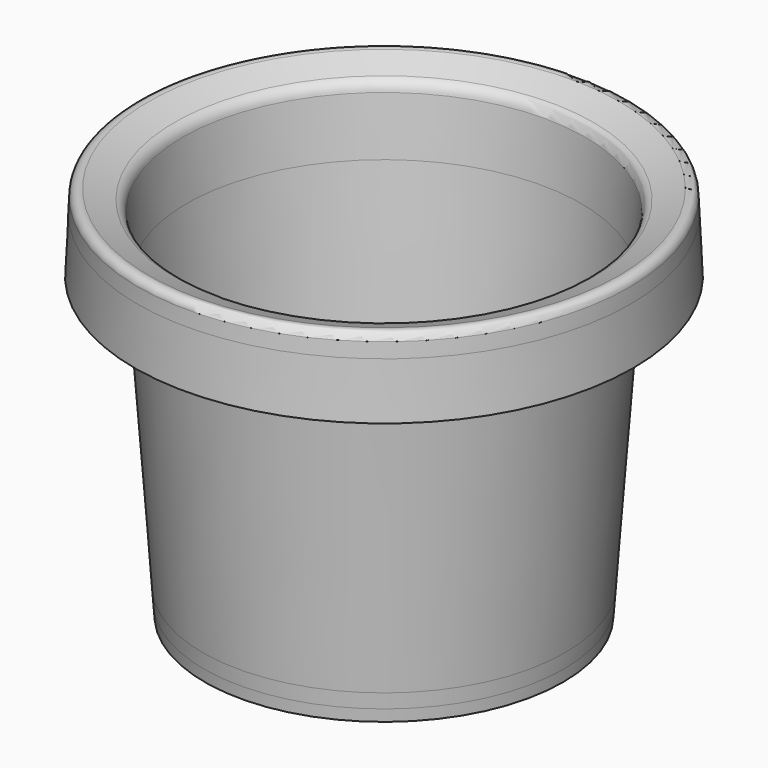
from build123d import *


with BuildPart() as f1:
    # F0 (on Front) → F1 (revolve)
    with BuildSketch(Plane.XZ):
        with BuildLine():
            Line((19.304, -3.81), (20.574, -3.81))
            Line((20.574, -3.81), (20.828, 0))
            Line((20.828, 0), (60.236531, 0))
            Line((60.236531, 0), (75.928032, 0))
            ThreePointArc((75.928032, 0), (79.802945, 0.796808), (83.004816, 3.120141))
            Line((83.004816, 3.120141), (83.039712, 1.778))
            Line((83.039712, 1.778), (83.185, -3.81))
            Line((83.185, -3.81), (84.455, -3.81))
            Line((84.455, -3.81), (84.865725, 1.778))
            Line((84.865725, 1.778), (85.373955, 8.692586))
            Line((85.373955, 8.692586), (96.777553, 163.841086))
            ThreePointArc((96.777553, 163.841086), (97.545706, 165.928684), (99.323649, 167.265487))
            Line((99.323649, 167.265487), (111.575691, 171.848545))
            ThreePointArc((111.575691, 171.848545), (113.241656, 171.657389), (114.069527, 170.199098))
            Line((114.069527, 170.199098), (115.611519, 137.156415))
            Line((115.611519, 137.156415), (117.389519, 137.156415))
            Line((117.389519, 137.156415), (116.171927, 163.318376))
            Line((116.171927, 163.318376), (115.847832, 170.282086))
            ThreePointArc((115.847832, 170.282086), (114.232981, 173.16289), (110.952129, 173.540759))
            Line((110.952129, 173.540759), (98.675388, 168.948623))
            ThreePointArc((98.675388, 168.948623), (96.105779, 166.993721), (95.006738, 163.957829))
            Line((95.006738, 163.957829), (92.906437, 137.156415))
            Line((92.906437, 137.156415), (83.601389, 8.831493))
            ThreePointArc((83.601389, 8.831493), (81.13937, 3.809282), (75.928032, 1.778))
            Line((75.928032, 1.778), (60.195246, 1.778))
            Line((60.195246, 1.778), (0, 1.778))
            Line((0, 1.778), (0, 0))
            Line((0, 0), (19.05, 0))
            Line((19.05, 0), (19.304, -3.81))
        make_face()
    revolve(axis=Axis((0, 0, 81.915), (0, 0, 1)))


solid = f1.part
